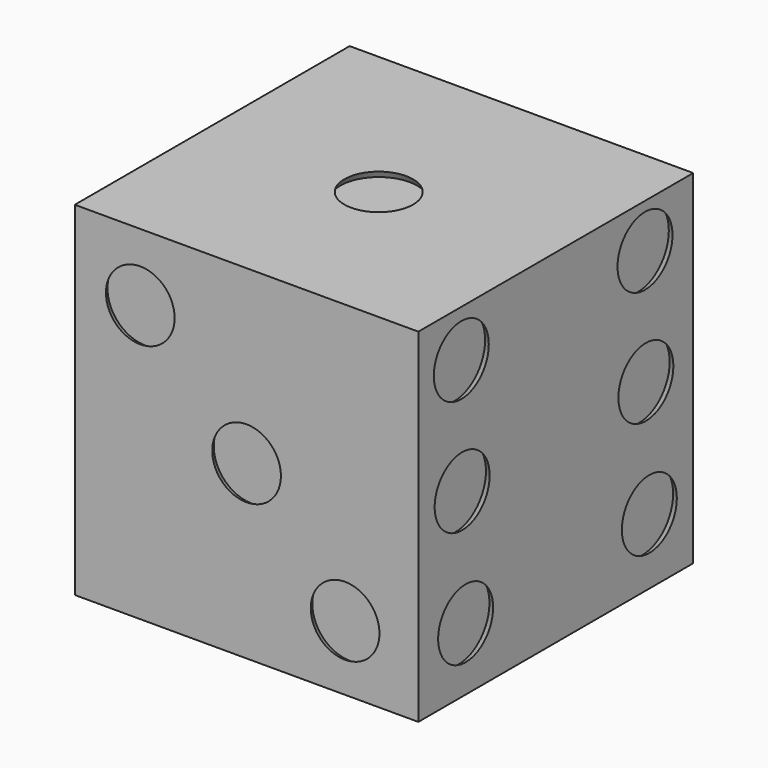
from build123d import *

# Parameters (mm, degrees)
F0_W     = 25.4
F0_H     = 25.4
F1_DEPTH = 25.4
F2_R     = 2.54
F3_DEPTH = 0.508
F3_TAPER = -30
F4_R     = 2.54
F5_DEPTH = 0.508
F5_TAPER = -30
F6_R     = 2.54
F7_DEPTH = 0.508
F7_TAPER = -30


with BuildPart() as f1:
    # F0 (on Front) → F1 (new body)
    with BuildSketch(Plane.XZ):
        Rectangle(F0_W, F0_H)
    extrude(amount=F1_DEPTH)

    # F2 (on face) → F3 (cut)
    with BuildSketch(Plane.XY.offset(12.7)):
        with Locations((0, -13.1861664227)):
            Circle(F2_R)
    extrude(amount=-F3_DEPTH, taper=F3_TAPER, mode=Mode.SUBTRACT)

    # F4 (on face) → F5 (cut)
    with BuildSketch(Plane.XZ.offset(25.4)):
        with Locations((-7.8587181904, 7.7246704255)):
            Circle(F4_R)
        Circle(F4_R)
        with Locations((7.2844922543, -7.8815827146)):
            Circle(F4_R)
    extrude(amount=-F5_DEPTH, taper=F5_TAPER, mode=Mode.SUBTRACT)

    # F6 (on face) → F7 (cut)
    with BuildSketch(Plane.YZ.offset(12.7)):
        with Locations((-21.4310005392, 9.2354966214)):
            Circle(F6_R)
        with Locations((-21.3517151213, 0.6695195233)):
            Circle(F6_R)
        with Locations((-21.0309289396, -8.0545796081)):
            Circle(F6_R)
        with Locations((-4.4544605161, 9.4443410787)):
            Circle(F6_R)
        with Locations((-4.3751750982, 0.8783639806)):
            Circle(F6_R)
        with Locations((-4.0543889164, -7.8457351509)):
            Circle(F6_R)
    extrude(amount=-F7_DEPTH, taper=F7_TAPER, mode=Mode.SUBTRACT)


solid = f1.part
